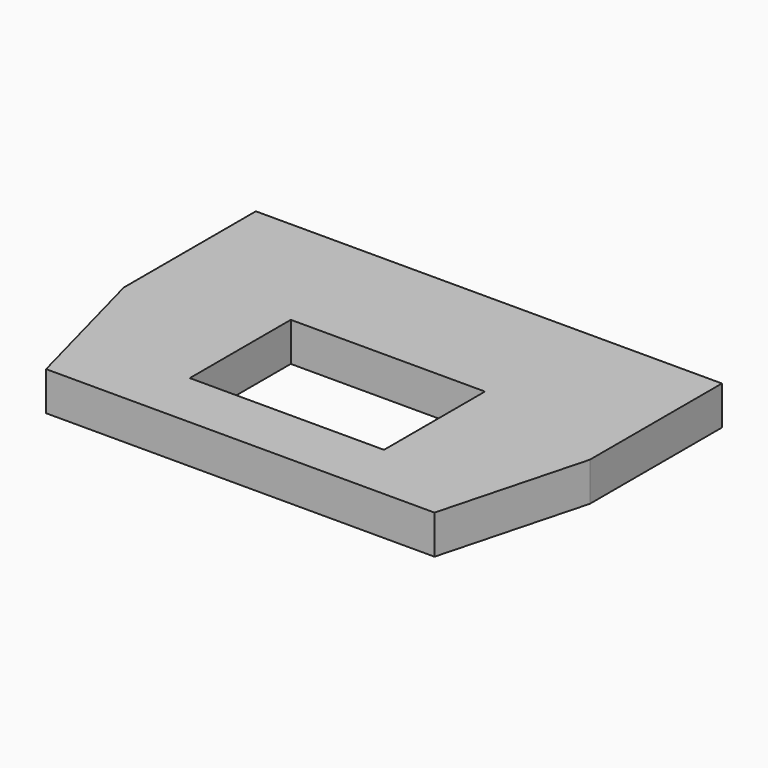
from build123d import *

# Parameters (mm, degrees)
F1_DEPTH = 6.35


with BuildPart() as f1:
    # F0 (on Top) → F1 (new body)
    with BuildSketch(Plane.XY):
        Polygon((38.1, 3.96875), (38.1, 30.95625), (0, 30.95625), (-38.1, 30.95625), (-38.1, 3.96875), (-31.75, -19.84375), (0, -19.84375), (31.75, -19.84375), align=None)
        Polygon((-15.875, 10.31875), (0, 10.31875), (15.875, 10.31875), (15.875, -10.31875), (0, -10.31875), (-15.875, -10.31875), align=None, mode=Mode.SUBTRACT)
    extrude(amount=F1_DEPTH)


solid = f1.part
